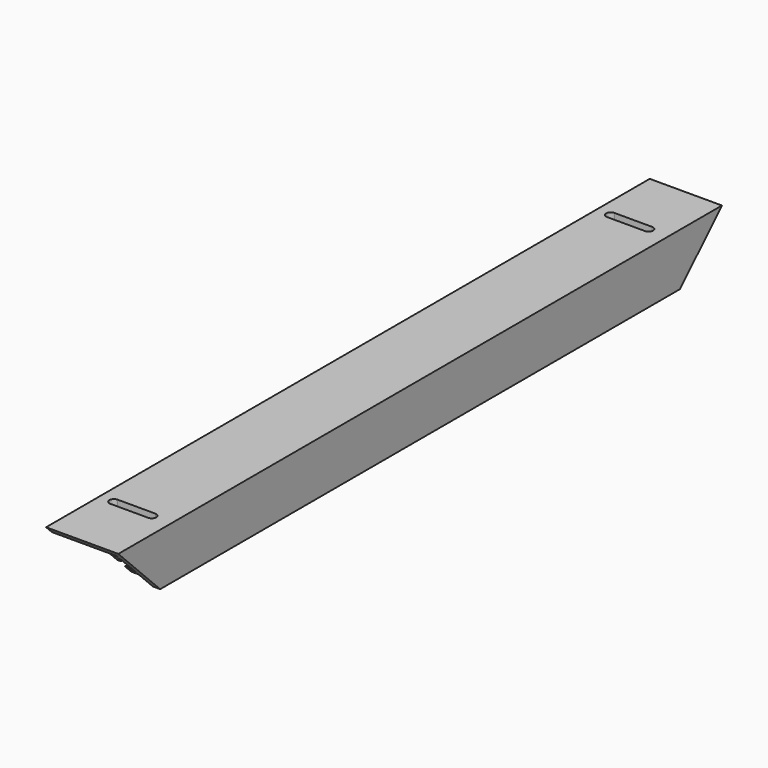
from build123d import *

# Parameters (mm, degrees)
F1_DEPTH = 265.43
F3_DEPTH = 25.4
F5_DEPTH = 2.54


with BuildPart() as f1:
    # F0 (on Front) → F1 (new body)
    with BuildSketch(Plane.XZ):
        Polygon((-2.54, 0), (0, 0), (0, 18.415), (-25.4, 18.415), (-25.4, 15.875), (-2.54, 15.875), (-2.54, 15.24), (-5.08, 15.24), (-5.08, 12.446), (-3.81, 12.446), (-3.81, 13.97), (-2.54, 13.97), (-2.54, 7.62), (-3.81, 7.62), (-3.81, 9.144), (-5.08, 9.144), (-5.08, 6.35), (-2.54, 6.35), align=None)
    extrude(amount=F1_DEPTH)

    # F2 (on face) → F3 (cut)
    with BuildSketch(Plane.YZ):
        Polygon((-247.015, 0), (-265.43, 18.415), (-265.43, 0), align=None)
        Polygon((0, 0), (0, 18.415), (-18.415, 0), align=None)
    extrude(amount=-F3_DEPTH, mode=Mode.SUBTRACT)

    # F4 (on face) → F5 (cut)
    with BuildSketch(Plane.XY.offset(18.415)):
        with BuildLine():
            Line((-6.985, -240.3475), (-20.32, -240.3475))
            ThreePointArc((-20.32, -240.3475), (-21.9075, -241.935), (-20.32, -243.5225))
            Line((-20.32, -243.5225), (-6.985, -243.5225))
            ThreePointArc((-6.985, -243.5225), (-5.3975, -241.935), (-6.985, -240.3475))
        make_face()
        with BuildLine():
            ThreePointArc((-20.32, -21.9075), (-21.9075, -23.495), (-20.32, -25.0825))
            Line((-20.32, -25.0825), (-6.985, -25.0825))
            ThreePointArc((-6.985, -25.0825), (-5.3975, -23.495), (-6.985, -21.9075))
            Line((-6.985, -21.9075), (-20.32, -21.9075))
        make_face()
    extrude(amount=-F5_DEPTH, mode=Mode.SUBTRACT)


solid = f1.part
